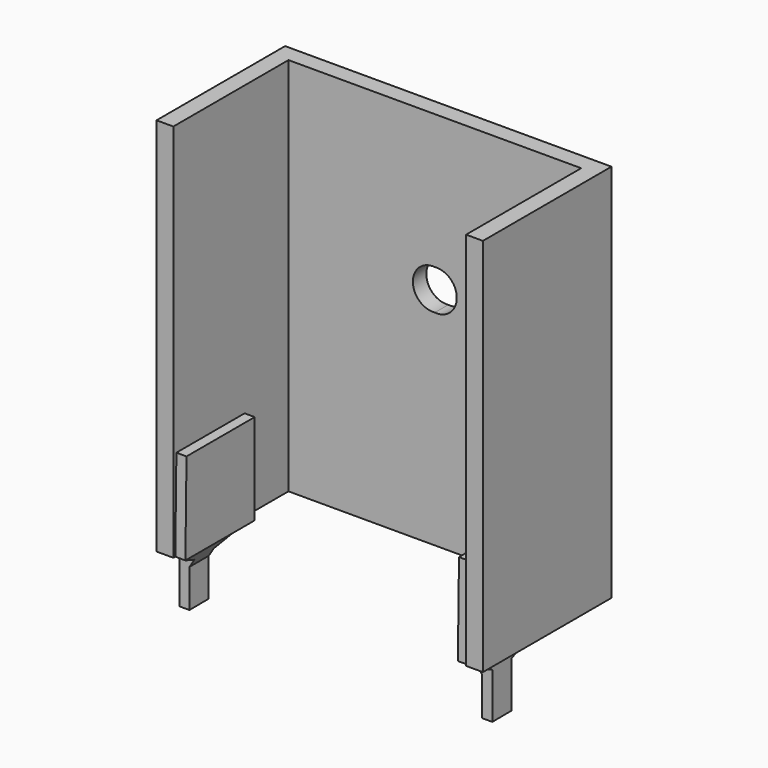
from build123d import *

# Parameters (mm, degrees)
F1_DEPTH = 30
F2_R     = 1.59
F3_DEPTH = 1.331
F5_DEPTH = 0.8
F7_DEPTH = 500


with BuildPart() as f1:
    # F0 (on Top) → F1 (new body)
    with BuildSketch(Plane.XY):
        Polygon((-6.304383, 7.103708), (-6.304383, -5.596292), (-4.974383, -5.596292), (-4.974383, 5.773708), (6.590617, 5.773708), (6.590617, 7.103708), align=None)
    extrude(amount=F1_DEPTH)

    # F2 (on face) → F3 (cut, through all)
    with BuildSketch(Plane.XZ.offset(-5.773708)):
        with Locations((6.445617, 17.78)):
            Circle(F2_R)
    extrude(amount=-F3_DEPTH, mode=Mode.SUBTRACT)

    # F4 (on face) → F5 (join, symmetric)
    with BuildSketch(Plane.YZ.offset(-4.974383)):
        Polygon((1.439443, 7.189216), (-5.295732, 7.189216), (-5.407412, 0), (-4.006254, -0.653366), (-4.006254, -4.282046), (-2.106292, -4.27), (-2.106292, -0.640731), (-0.785984, 0), (1.436453, 0), align=None)
    extrude(amount=F5_DEPTH, both=True)

    # F6 (on face) → F7 (cut, symmetric)
    with BuildSketch(Plane.XZ.offset(4.006254)):
        Polygon((-4.174383, 0), (-4.974383, -1.282046), (-4.974383, -4.282046), (-4.174383, -4.282046), align=None)
    extrude(amount=F7_DEPTH, both=True, mode=Mode.SUBTRACT)

    # F8: F1 across face


with BuildPart() as f1_1:
    add(f1.part)
    add(f1.part.mirror(Plane(origin=(6.590617, 6.438708, 8.098313), x_dir=(0, 1, 0), z_dir=(1, 0, 0))))


solid = f1_1.part
